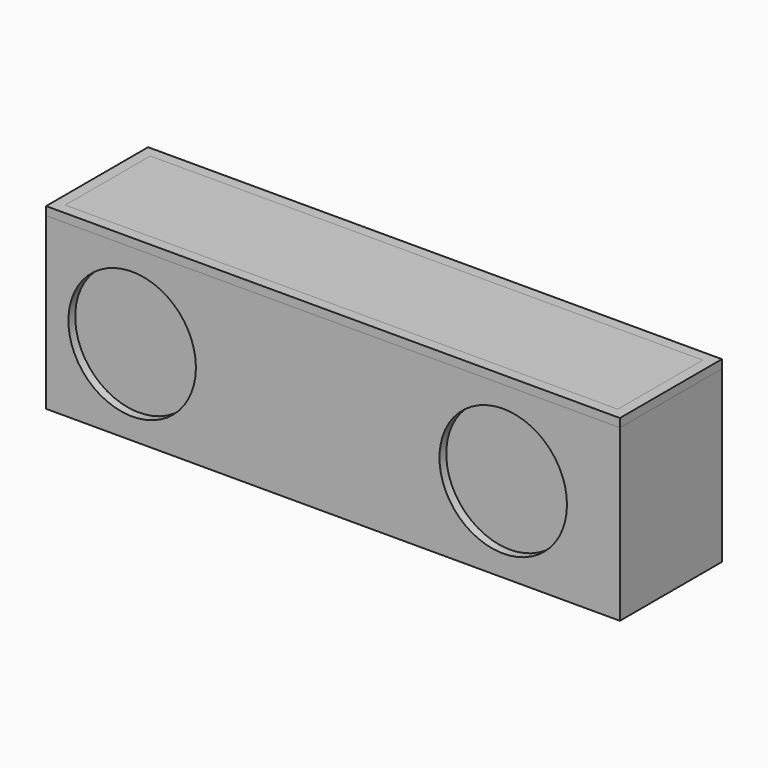
from build123d import *

# Parameters (mm, degrees)
F0_W      = 135
F0_H      = 30
F1_DEPTH  = 30
F2_T      = -2.5
F3_R      = 2.5
F4_DEPTH  = 35
F5_DEPTH  = 5
F6_DEPTH  = 5
F7_W      = 130
F7_H      = 25
F8_DEPTH  = 2
F9_DEPTH  = 2
F10_R     = 15
F11_DEPTH = 2


with BuildPart() as f1:
    # F0 (on Front) → F1 (new body)
    with BuildSketch(Plane.XZ):
        with Locations((-0.5819004774, 15)):
            Rectangle(F0_W, F0_H)
    extrude(amount=F1_DEPTH)

    # F2
    f2_openings = [f1.faces().sort_by_distance(p)[0] for p in [
        (-0.5819, -15, 30),
    ]]
    offset(amount=F2_T, openings=f2_openings)

    # F3 (on face) → F4 (join)
    with BuildSketch(Plane.XY.offset(2.5)):
        with Locations((-62.0689690113, -8.146552369)):
            Circle(F3_R)
        with Locations((-62.0689690113, -22.5000027567)):
            Circle(F3_R)
        with Locations((58.1896565855, -22.5000027567)):
            Circle(F3_R)
        with Locations((58.1896565855, -8.146552369)):
            Circle(F3_R)
    extrude(amount=F4_DEPTH)

    # F5 (add): a face of the model
    f5_faces = [f1.faces().sort_by_distance(p)[0] for p in [
        (65.535167854, -15, 30),
    ]]
    extrude(f5_faces, amount=F5_DEPTH)

    # F6 (add): a face of the model
    f6_faces = [f1.faces().sort_by_distance(p)[0] for p in [
        (65.535167854, -15, 35),
    ]]
    extrude(f6_faces, amount=F6_DEPTH)


with BuildPart() as f8:
    # F7 (on face) → F8 (new body)
    with BuildSketch(Plane.XY.offset(40)):
        with Locations((-0.5819004774, -15)):
            Rectangle(F7_W, F7_H)
    extrude(amount=F8_DEPTH)


with BuildPart() as f9:
    # F9 (new): a face of the model
    f9_faces = [f1.part.faces().sort_by_distance(p)[0] for p in [
        (65.535167854, -15, 40),
    ]]
    extrude(f9_faces, amount=F9_DEPTH)


with BuildPart() as f1_1:
    add(f1.part)

    # F10 (on face) → F11 (cut)
    with BuildSketch(Plane.XZ.offset(30)):
        with Locations((-47.8322058916, 20)):
            Circle(F10_R)
        with Locations((39.4648276269, 20)):
            Circle(F10_R)
    extrude(amount=-F11_DEPTH, mode=Mode.SUBTRACT)


solid = Compound([f8.part, f9.part, f1_1.part])
